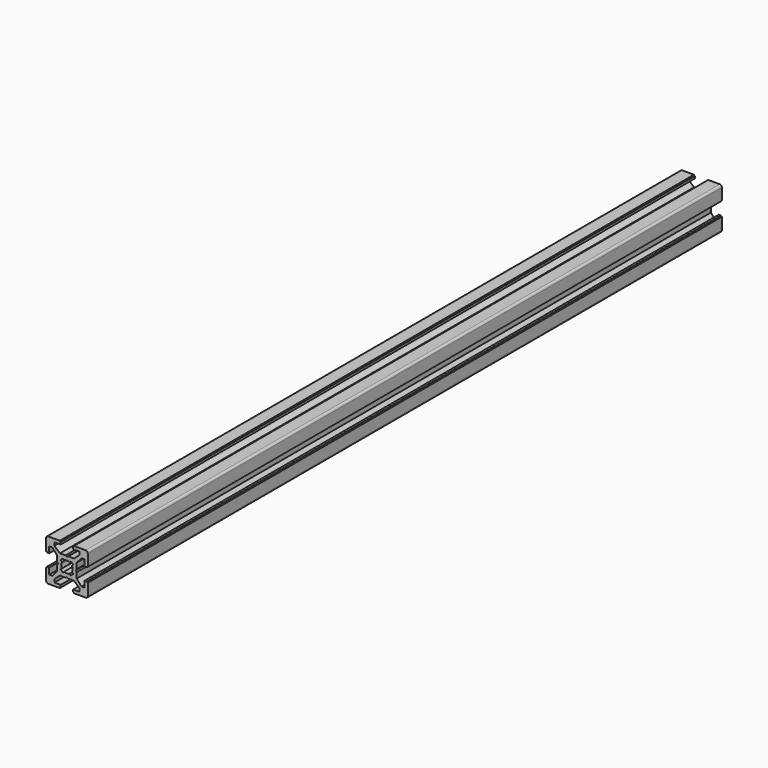
from build123d import *

# Parameters (mm, degrees)
PAD_DEPTH          = 380
POCKET_DEPTH       = 380
POLARPATTERN_COUNT = 4
POCKET001_DEPTH    = 380


with BuildPart() as part:
    # Sketch → Pad (new body)
    with BuildSketch(Plane(origin=(0, 0, 0), x_dir=(-1, 0, 0), z_dir=(0, 1, 0))):
        with BuildLine():
            Line((-9, 10), (9, 10))
            ThreePointArc((10, 9), (9.707107, 9.707107), (9, 10))
            Line((10, 9), (10, -9))
            ThreePointArc((9, -10), (9.707107, -9.707107), (10, -9))
            Line((9, -10), (-9, -10))
            ThreePointArc((-10, -9), (-9.707107, -9.707107), (-9, -10))
            Line((-10, -9), (-10, 9))
            ThreePointArc((-9, 10), (-9.707107, 9.707107), (-10, 9))
        make_face()
    extrude(amount=PAD_DEPTH)

    # Sketch001 (on Face10 of Pad) → Pocket (cut)
    with BuildSketch(Plane(origin=(0, 380, 0), x_dir=(1, 0, 0), z_dir=(0, 1, 0))):
        Polygon((-3.4, 10), (-3.4, 9.6), (-3, 9.6), (-3, 8.5), (-6, 8.5), (-6, 7), (-3.35, 4.7), (-0.65, 4.7), (0, 4.3), (0.65, 4.7), (3.35, 4.7), (6, 7), (6, 8.5), (3, 8.5), (3, 9.6), (3.4, 9.6), (3.4, 10), align=None)
    pocket = extrude(amount=-POCKET_DEPTH, mode=Mode.SUBTRACT)

    # PolarPattern: Pocket ×4 about axis
    polarpattern_axis = Axis((0, 380, 0), (0, 1, 0))
    for i in range(1, POLARPATTERN_COUNT):
        add(pocket.rotate(polarpattern_axis, i * 360 / POLARPATTERN_COUNT), mode=Mode.SUBTRACT)

    # Sketch002 (on Face4 of PolarPattern) → Pocket001 (cut)
    with BuildSketch(Plane(origin=(0, 380, 0), x_dir=(1, 0, 0), z_dir=(0, 1, 0))):
        with BuildLine():
            ThreePointArc((1.340499, 2.401159), (0, 2.75), (-1.340499, 2.401159))
            Line((-1.944544, 3.005204), (-1.340499, 2.401159))
            Line((-3.005204, 1.944544), (-1.944544, 3.005204))
            Line((-2.401159, 1.340499), (-3.005204, 1.944544))
            ThreePointArc((-2.401159, 1.340499), (-2.75, 0), (-2.401159, -1.340499))
            Line((-3.005204, -1.944544), (-2.401159, -1.340499))
            Line((-1.944544, -3.005204), (-3.005204, -1.944544))
            Line((-1.340499, -2.401159), (-1.944544, -3.005204))
            ThreePointArc((-1.340499, -2.401159), (0, -2.75), (1.340499, -2.401159))
            Line((1.944544, -3.005204), (1.340499, -2.401159))
            Line((3.005204, -1.944544), (1.944544, -3.005204))
            Line((2.401159, -1.340499), (3.005204, -1.944544))
            ThreePointArc((2.401159, -1.340499), (2.75, 0), (2.401159, 1.340499))
            Line((2.401159, 1.340499), (3.005204, 1.944544))
            Line((3.005204, 1.944544), (1.944544, 3.005204))
            Line((1.944544, 3.005204), (1.340499, 2.401159))
        make_face()
    extrude(amount=-POCKET001_DEPTH, mode=Mode.SUBTRACT)


solid = part.part
